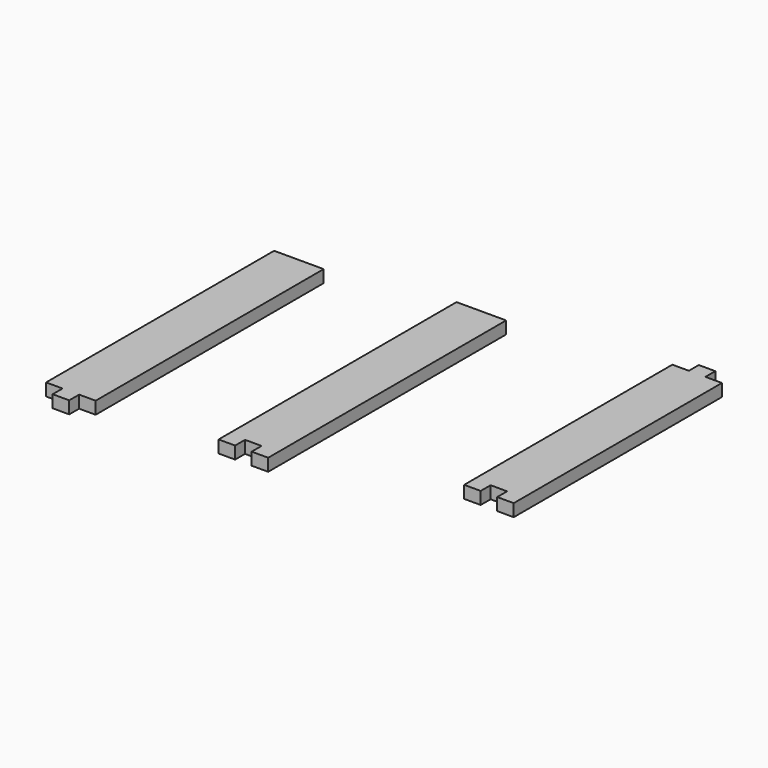
from build123d import *

# Parameters (mm, degrees)
F0_W      = 12.7
F0_H      = 73.025
F1_DEPTH  = 3.175
F0_H_2    = 76.2
F0_H_3    = 63.5
F2_W      = 4.2333333333
F2_H      = 3.175
F3_DEPTH  = 11.1125
F4_W      = 4.2333333333
F4_H      = 3.175
F5_DEPTH  = 3.175
F6_W      = 4.2333333333
F6_H      = 3.175
F7_DEPTH  = 3.175
F8_W      = 4.2333333333
F8_H      = 3.175
F9_DEPTH  = 3.175
F10_W     = 4.2333333333
F10_H     = 3.175
F11_DEPTH = 3.175


with BuildPart() as f1:
    # F0 (on Top) → F1 (new body)
    with BuildSketch(Plane.XY):
        with Locations((-105.9199720621, -7.1449020383)):
            Rectangle(F0_W, F0_H)
    extrude(amount=F1_DEPTH)

    # F6 (on face) → F7 (join)
    with BuildSketch(Plane.XZ.offset(43.6574020383)):
        with Locations((-105.9199720621, 1.5875)):
            Rectangle(F6_W, F6_H)
    extrude(amount=F7_DEPTH)


with BuildPart() as f1b:
    # F0 (on Top) → F1, piece 2 (new body)
    with BuildSketch(Plane.XY):
        with Locations((-63.5328324676, -3.2940139115)):
            Rectangle(F0_W, F0_H_2)
    extrude(amount=F1_DEPTH)

    # F8 (on face) → F9 (cut)
    with BuildSketch(Plane.XZ.offset(41.3940139115)):
        with Locations((-63.5328324676, 1.5875)):
            Rectangle(F8_W, F8_H)
    extrude(amount=-F9_DEPTH, mode=Mode.SUBTRACT)


with BuildPart() as f1c:
    # F0 (on Top) → F1, piece 3 (new body)
    with BuildSketch(Plane.XY):
        with Locations((-12.8860412329, 8.8615444601)):
            Rectangle(F0_W, F0_H_3)
    extrude(amount=F1_DEPTH)

    # F2 (on face) → F3 (join)
    with BuildSketch(Plane(origin=(0, 29.3675979617, 0), x_dir=(-1, 0, 0), z_dir=(0, 1, 0))):
        with Locations((12.8860412329, 1.5875)):
            Rectangle(F2_W, F2_H)
    extrude(amount=F3_DEPTH)

    # F4 (on face) → F5 (join)
    with BuildSketch(Plane.XZ.offset(22.8884555399)):
        with Locations((-17.1193745663, 1.5875)):
            Rectangle(F4_W, F4_H)
        with Locations((-8.6527078996, 1.5875)):
            Rectangle(F4_W, F4_H)
    extrude(amount=F5_DEPTH)

    # F10 (on face) → F11 (join)
    with BuildSketch(Plane(origin=(0, 40.6115444601, 0), x_dir=(-1, 0, 0), z_dir=(0, 1, 0))):
        with Locations((12.8860412329, 1.5875)):
            Rectangle(F10_W, F10_H)
    extrude(amount=F11_DEPTH)


solid = Compound([f1.part, f1b.part, f1c.part])
